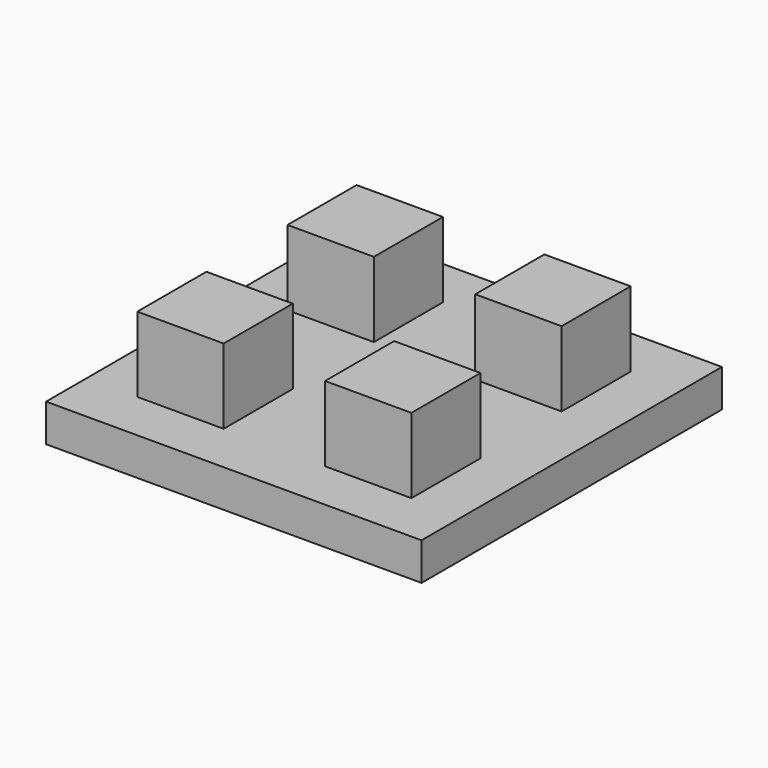
from build123d import *

# Parameters (mm, degrees)
F0_W     = 20
F0_H     = 20
F1_DEPTH = 2
F2_DEPTH = 6


with BuildPart() as f1:
    # F0 (on Top) → F1 (new body)
    with BuildSketch(Plane.XY):
        Rectangle(F0_W, F0_H)
        Polygon((-7.3, -2.7), (-5, -2.7), (-2.7, -2.7), (-2.7, -7.3), (-7.3, -7.3), align=None, mode=Mode.SUBTRACT)
        Polygon((2.7, -2.7), (5, -2.7), (7.3, -2.7), (7.3, -7.3), (2.7, -7.3), align=None, mode=Mode.SUBTRACT)
        Polygon((-2.7, 2.7), (-5, 2.7), (-7.3, 2.7), (-7.3, 7.3), (-2.7, 7.3), align=None, mode=Mode.SUBTRACT)
        Polygon((7.3, 2.7), (5, 2.7), (2.7, 2.7), (2.7, 7.3), (7.3, 7.3), align=None, mode=Mode.SUBTRACT)
    extrude(amount=F1_DEPTH)

    # F0 (on Top) → F2 (join)
    with BuildSketch(Plane.XY):
        Polygon((-7.3, 2.7), (-5, 2.7), (-2.7, 2.7), (-2.7, 7.3), (-7.3, 7.3), align=None)
        Polygon((2.7, 2.7), (5, 2.7), (7.3, 2.7), (7.3, 7.3), (2.7, 7.3), align=None)
        Polygon((-2.7, -2.7), (-5, -2.7), (-7.3, -2.7), (-7.3, -7.3), (-2.7, -7.3), align=None)
        Polygon((7.3, -2.7), (5, -2.7), (2.7, -2.7), (2.7, -7.3), (7.3, -7.3), align=None)
    extrude(amount=F2_DEPTH)


solid = f1.part
